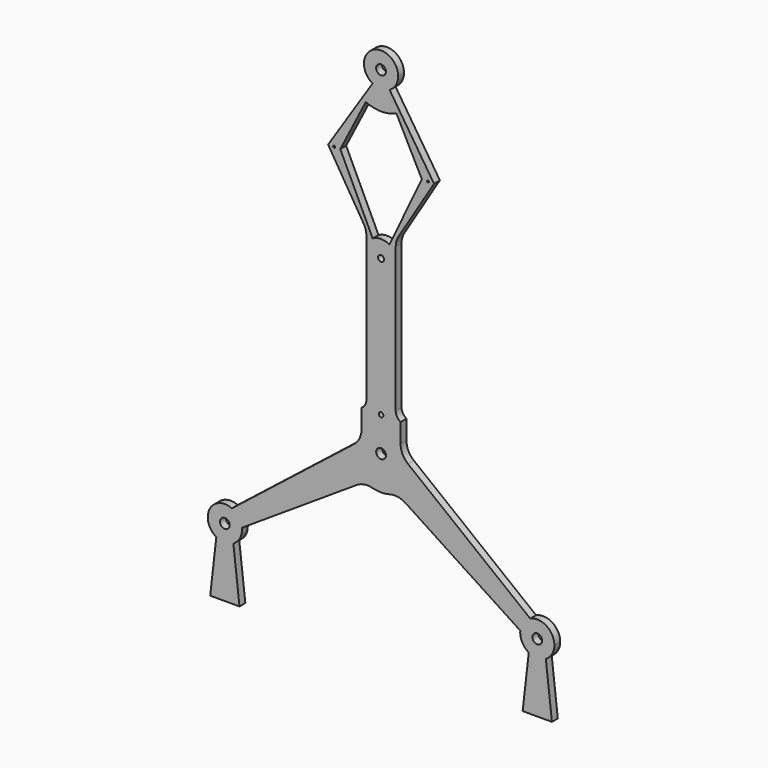
from build123d import *

# Parameters (mm, degrees)
F0_R     = 3.175
F0_R_2   = 1.5
F0_R_3   = 0.635
F0_R_4   = 1.984375
F1_DEPTH = 4.7625


with BuildPart() as f1:
    # F0 (on Front) → F1 (new body)
    with BuildSketch(Plane.XZ):
        with BuildLine():
            Line((-107.15625, -82.648707), (-111.125, -117.475))
            Line((-111.125, -117.475), (-92.075, -117.475))
            Line((-92.075, -117.475), (-96.04375, -82.648707))
            ThreePointArc((-96.04375, -82.648707), (-101.6, -84.1375), (-107.15625, -82.648707))
        make_face()
        with BuildLine():
            ThreePointArc((-97.02823, -62.896497), (-111.488364, -67.954704), (-107.15625, -82.648707))
            ThreePointArc((-107.15625, -82.648707), (-101.6, -84.1375), (-96.04375, -82.648707))
            ThreePointArc((-96.04375, -82.648707), (-91.976293, -78.58125), (-90.4875, -73.025))
            ThreePointArc((-90.4875, -73.025), (-90.501277, -72.471823), (-90.542574, -71.920018))
            ThreePointArc((-90.542574, -71.920018), (-92.576479, -66.539344), (-97.02823, -62.896497))
        make_face()
        with Locations((-101.6, -73.025)):
            Circle(F0_R, mode=Mode.SUBTRACT)
        with BuildLine():
            Line((-17.536324, -0.214839), (-97.02823, -62.896497))
            ThreePointArc((-97.02823, -62.896497), (-92.576479, -66.539344), (-90.542574, -71.920018))
            Line((-90.542574, -71.920018), (-15.866767, -23.134312))
            ThreePointArc((-15.866767, -23.134312), (-10.946635, -21.229106), (-5.676852, -21.487763))
            ThreePointArc((-5.676852, -21.487763), (0, -22.225), (5.676852, -21.487763))
            ThreePointArc((5.676852, -21.487763), (10.946635, -21.229106), (15.866767, -23.134312))
            Line((15.866767, -23.134312), (90.542574, -71.920018))
            ThreePointArc((90.542574, -71.920018), (92.576479, -66.539344), (97.02823, -62.896497))
            Line((97.02823, -62.896497), (17.536324, -0.214839))
            ThreePointArc((17.536324, -0.214839), (13.972868, 4.216033), (12.7, 9.757753))
            Line((12.7, 9.757753), (12.7, 22.225))
            ThreePointArc((12.7, 22.225), (10.375739, 24.549261), (9.525, 27.724261))
            Line((9.525, 27.724261), (9.525, 121.426249))
            ThreePointArc((9.525, 121.426249), (10.000899, 124.87028), (11.392929, 128.0562))
            Line((11.392929, 128.0562), (34.44875, 165.725))
            Line((34.44875, 165.725), (5.55625, 210.076293))
            ThreePointArc((5.55625, 210.076293), (0, 208.5875), (-5.55625, 210.076293))
            Line((-5.55625, 210.076293), (-34.44875, 165.725))
            Line((-34.44875, 165.725), (-11.392929, 128.0562))
            ThreePointArc((-11.392929, 128.0562), (-10.000899, 124.87028), (-9.525, 121.426249))
            Line((-9.525, 121.426249), (-9.525, 27.724261))
            ThreePointArc((-9.525, 27.724261), (-10.375739, 24.549261), (-12.7, 22.225))
            Line((-12.7, 22.225), (-12.7, 9.757753))
            ThreePointArc((-12.7, 9.757753), (-13.972868, 4.216033), (-17.536324, -0.214839))
        make_face()
        Circle(F0_R, mode=Mode.SUBTRACT)
        with Locations((0, 22.225)):
            Circle(F0_R_2, mode=Mode.SUBTRACT)
        with Locations((-30.48, 165.725)):
            Circle(F0_R_3, mode=Mode.SUBTRACT)
        with Locations((0, 111.75)):
            Circle(F0_R_4, mode=Mode.SUBTRACT)
        with BuildLine():
            Line((-26.51125, 165.725), (-9.93986, 198.061277))
            ThreePointArc((-9.93986, 198.061277), (0, 195.8875), (9.93986, 198.061277))
            Line((9.93986, 198.061277), (26.51125, 165.725))
            Line((26.51125, 165.725), (5.464235, 121.426249))
            ThreePointArc((5.464235, 121.426249), (0, 122.8625), (-5.464235, 121.426249))
            Line((-5.464235, 121.426249), (-26.51125, 165.725))
        make_face(mode=Mode.SUBTRACT)
        with Locations((30.48, 165.725)):
            Circle(F0_R_3, mode=Mode.SUBTRACT)
        with BuildLine():
            ThreePointArc((97.02823, -62.896497), (92.576479, -66.539344), (90.542574, -71.920018))
            ThreePointArc((90.542574, -71.920018), (91.711636, -78.095296), (96.04375, -82.648707))
            ThreePointArc((96.04375, -82.648707), (101.6, -84.1375), (107.15625, -82.648707))
            ThreePointArc((107.15625, -82.648707), (111.223707, -78.58125), (112.7125, -73.025))
            ThreePointArc((112.7125, -73.025), (107.628427, -63.689812), (97.02823, -62.896497))
        make_face()
        with Locations((101.6, -73.025)):
            Circle(F0_R, mode=Mode.SUBTRACT)
        with BuildLine():
            ThreePointArc((107.15625, -82.648707), (101.6, -84.1375), (96.04375, -82.648707))
            Line((96.04375, -82.648707), (92.075, -117.475))
            Line((92.075, -117.475), (111.125, -117.475))
            Line((111.125, -117.475), (107.15625, -82.648707))
        make_face()
        with BuildLine():
            ThreePointArc((11.1125, 219.7), (-5.55625, 229.323707), (-5.55625, 210.076293))
            ThreePointArc((-5.55625, 210.076293), (0, 208.5875), (5.55625, 210.076293))
            ThreePointArc((5.55625, 210.076293), (9.623707, 214.14375), (11.1125, 219.7))
        make_face()
        with Locations((0, 219.7)):
            Circle(F0_R, mode=Mode.SUBTRACT)
    extrude(amount=F1_DEPTH)


solid = f1.part
